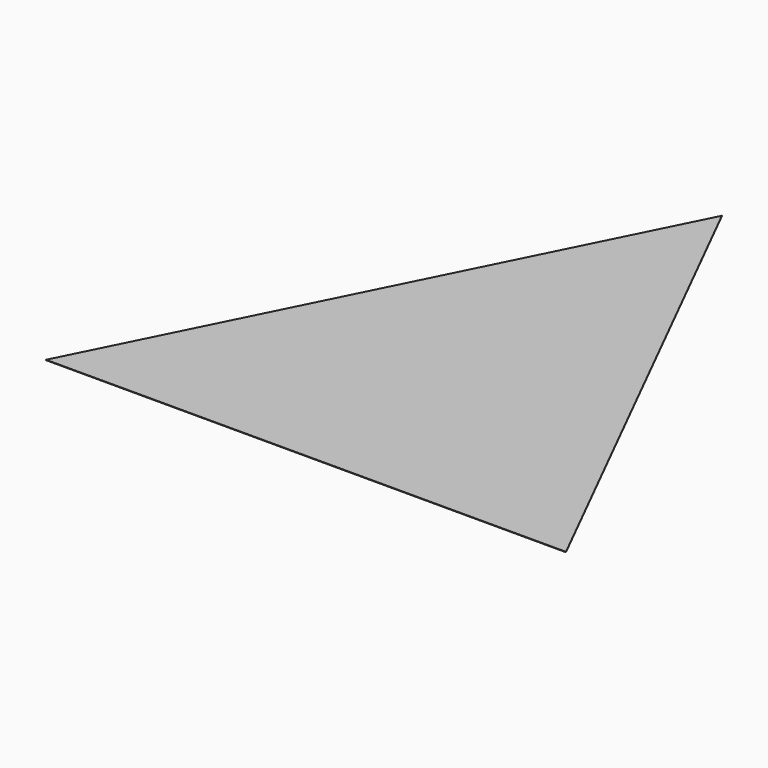
from build123d import *

# Parameters (mm, degrees)
PAD_DEPTH = 0.6


with BuildPart() as part:
    # Sketch → Pad (new body)
    with BuildSketch(Plane.XY):
        Polygon((-350, 0), (0, 700), (350, 0), (0, 0), align=None)
    extrude(amount=PAD_DEPTH)


solid = part.part
